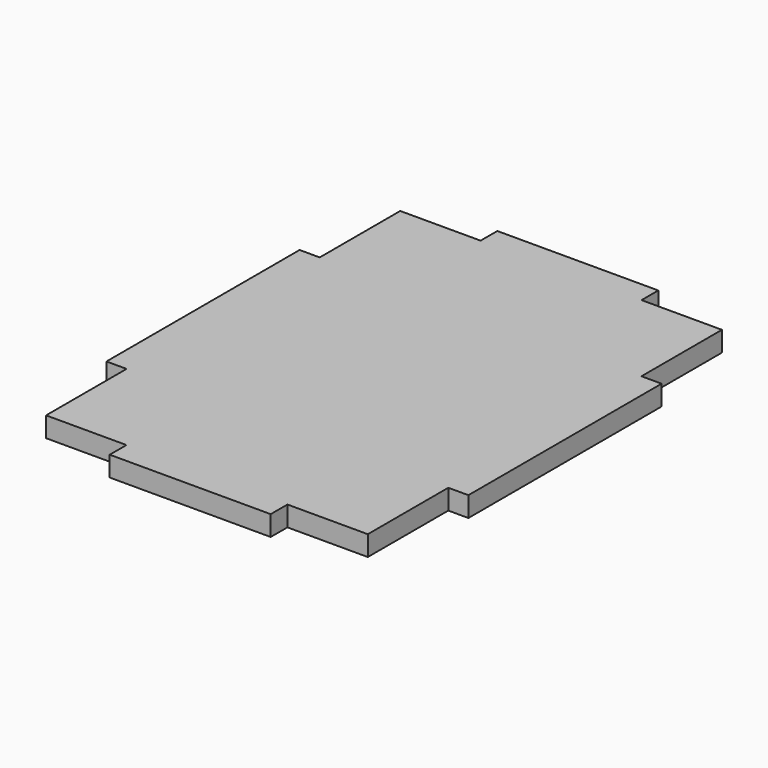
from build123d import *

# Parameters (mm, degrees)
F1_DEPTH = 3.175


with BuildPart() as f1:
    # F0 (on Top) → F1 (new body)
    with BuildSketch(Plane.XY):
        Polygon((25.382956, 19.05), (25.382956, 34.925), (12.7, 34.925), (12.7, 38.224392), (-12.7, 38.224392), (-12.7, 34.925), (-25.382956, 34.925), (-25.382956, 19.05), (-28.559241, 19.05), (-28.559241, -19.05), (-25.382956, -19.05), (-25.382956, -34.925), (-12.7, -34.925), (-12.7, -38.224392), (12.7, -38.224392), (12.7, -34.925), (25.382956, -34.925), (25.382956, -19.05), (28.559241, -19.05), (28.559241, 19.05), align=None)
    extrude(amount=F1_DEPTH)


solid = f1.part
